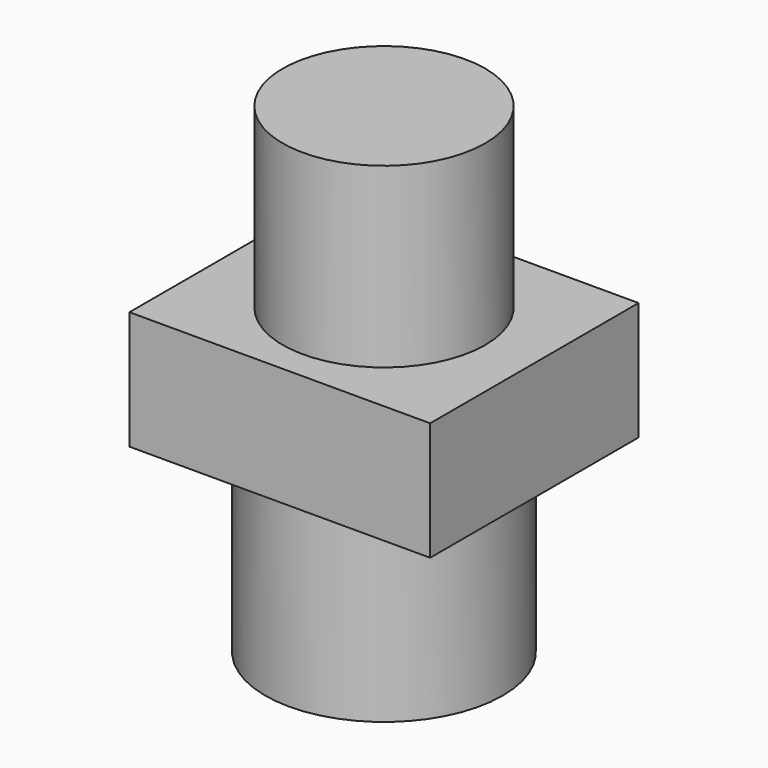
from build123d import *

# Parameters (mm, degrees)
F0_W     = 129.07374
F0_H     = 111.796118
F1_DEPTH = 50.813455
F2_R     = 43.46422
F3_DEPTH = 76.2
F4_R     = 50.947819
F4_R_2   = 40.53744
F5_DEPTH = 79.245634


with BuildPart() as f1:
    # F0 (on Top) → F1 (new body)
    with BuildSketch(Plane.XY):
        Rectangle(F0_W, F0_H)
    extrude(amount=-F1_DEPTH)

    # F2 (on face) → F3 (join)
    with BuildSketch(Plane.XY):
        Circle(F2_R)
    extrude(amount=F3_DEPTH)

    # F4 (on face) → F5 (join)
    with BuildSketch(Plane(origin=(0, 0, -50.813455), x_dir=(1, 0, 0), z_dir=(0, 0, -1))):
        Circle(F4_R)
        Circle(F4_R_2, mode=Mode.SUBTRACT)
    extrude(amount=F5_DEPTH)


solid = f1.part
